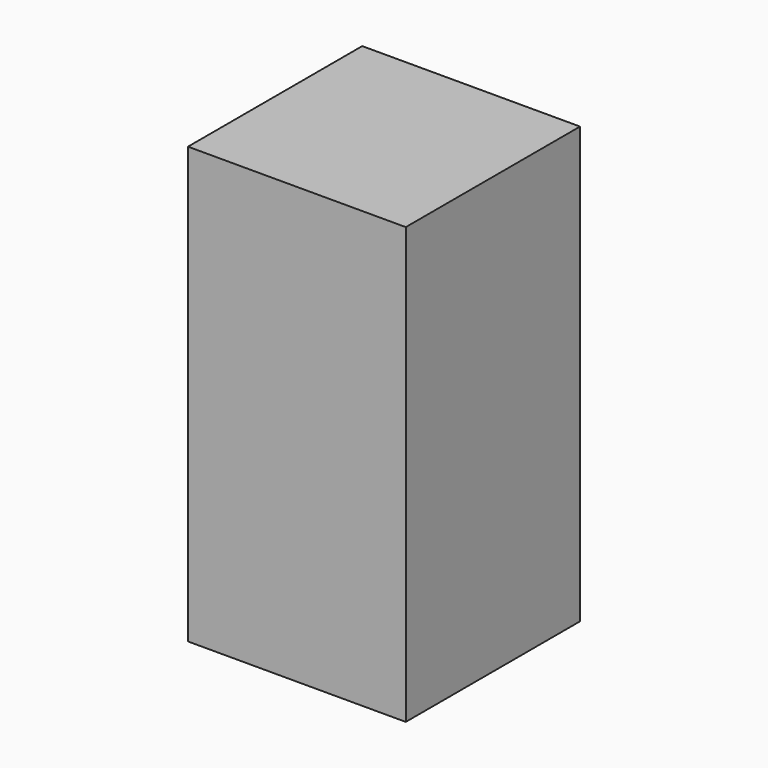
from build123d import *

# Parameters (mm, degrees)
F1_DEPTH = 25.4
F0_W     = 25.4
F0_H     = 25.4
F2_DEPTH = 50.8


with BuildPart() as f1:
    # F0 (on Top) → F1 (new body)
    with BuildSketch(Plane.XY):
        Polygon((-12.7, 12.7), (12.7, 12.7), (0, 25.4), align=None)
    extrude(amount=F1_DEPTH)

    # F0 (on Top) → F2 (join)
    with BuildSketch(Plane.XY):
        Rectangle(F0_W, F0_H)
    extrude(amount=F2_DEPTH)


solid = f1.part
